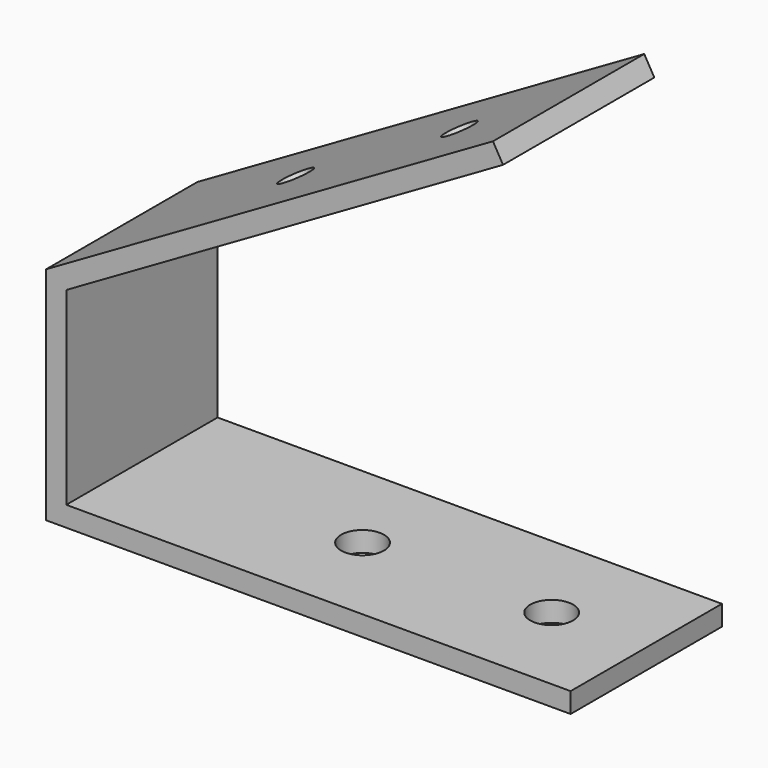
from build123d import *

# Parameters (mm, degrees)
F1_DEPTH = 30
F3_D     = 6.8
F3_DEPTH = 3.201
F5_D     = 5
F5_DEPTH = 6.2
F5_TIP   = 1.5021515476


with BuildPart() as f1:
    # F0 (on Front) → F1 (new body)
    with BuildSketch(Plane.XZ):
        Polygon((80, 0), (0, 0), (0, 30), (69.2820323028, 70), (67.6820323028, 72.7712812921), (-3.2, 31.8475208614), (-3.2, -3.2), (80, -3.2), align=None)
    extrude(amount=-F1_DEPTH)

    # F3 (through all, one way)
    with BuildSketch(Plane.XY):
        with Locations((35, 15), (65, 15)):
            Circle(F3_D / 2)
    extrude(amount=-F3_DEPTH, mode=Mode.SUBTRACT)

    # F5
    with Locations(Plane(origin=(-14.5903810568, 0, 25.2712812921), x_dir=(0.8660254038, 0, 0.5), z_dir=(-0.5, 0, 0.8660254038))):
        with Locations((75, 15), (45, 15)):
            Hole(F5_D / 2, depth=F5_DEPTH)
            with Locations((0, 0, -(F5_DEPTH + F5_TIP / 2))):  # 118° drill point
                Cone(0, F5_D / 2, F5_TIP, mode=Mode.SUBTRACT)


solid = f1.part
